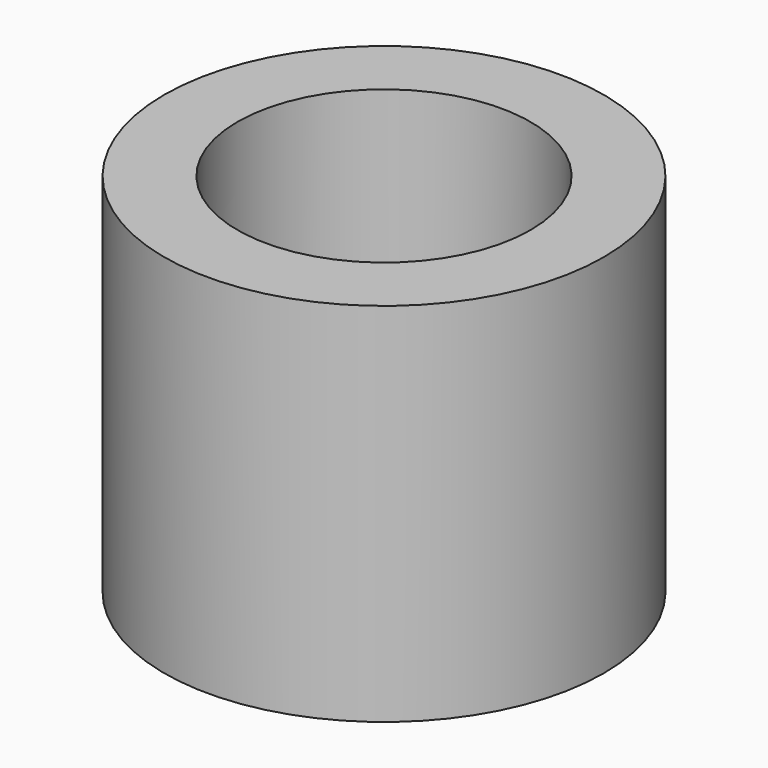
from build123d import *

# Parameters (mm, degrees)
F1_R     = 12
F1_R_2   = 8
F2_DEPTH = 20


with BuildPart() as f2:
    # F1 (on face) → F2 (new body)
    with BuildSketch(Plane.XY):
        with Locations((1.159891, 7.0283)):
            Circle(F1_R)
        with Locations((1.159891, 7.0283)):
            Circle(F1_R_2, mode=Mode.SUBTRACT)
    extrude(amount=F2_DEPTH)


solid = f2.part
